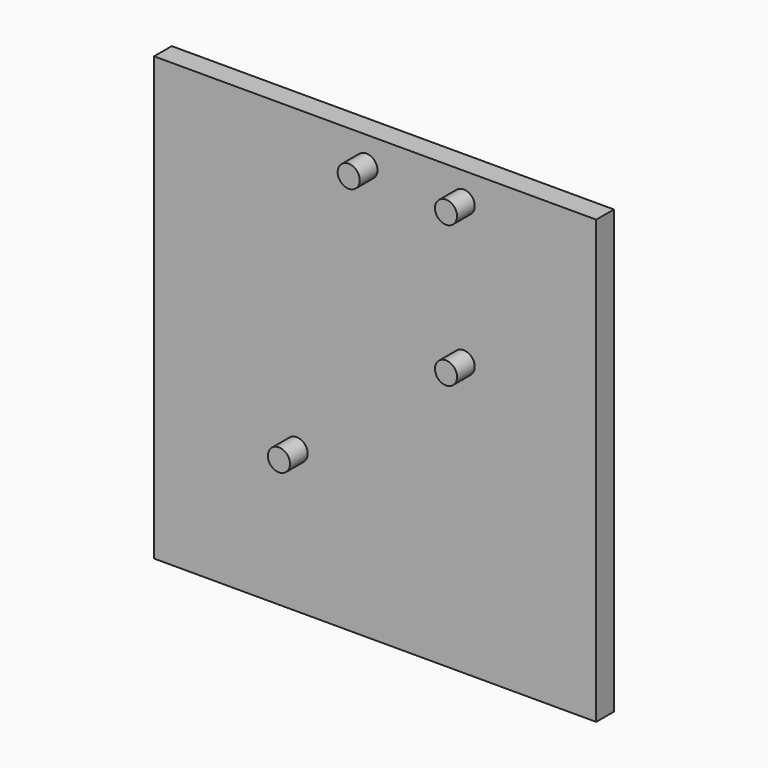
from build123d import *

# Parameters (mm, degrees)
F0_W     = 500
F0_H     = 500
F1_DEPTH = 25
F2_R     = 12.5
F3_DEPTH = 25


with BuildPart() as f1:
    # F0 (on Front) → F1 (new body)
    with BuildSketch(Plane.XZ):
        Rectangle(F0_W, F0_H)
    extrude(amount=F1_DEPTH)

    # F2 (on face) → F3 (join)
    with BuildSketch(Plane.XZ.offset(25)):
        with Locations((-9.894066, 218.870133)):
            Circle(F2_R)
        with Locations((100.105934, 218.870133)):
            Circle(F2_R)
        with Locations((100.105934, 58.870133)):
            Circle(F2_R)
        with Locations((-88.803142, -89.161488)):
            Circle(F2_R)
    extrude(amount=F3_DEPTH)


solid = f1.part
